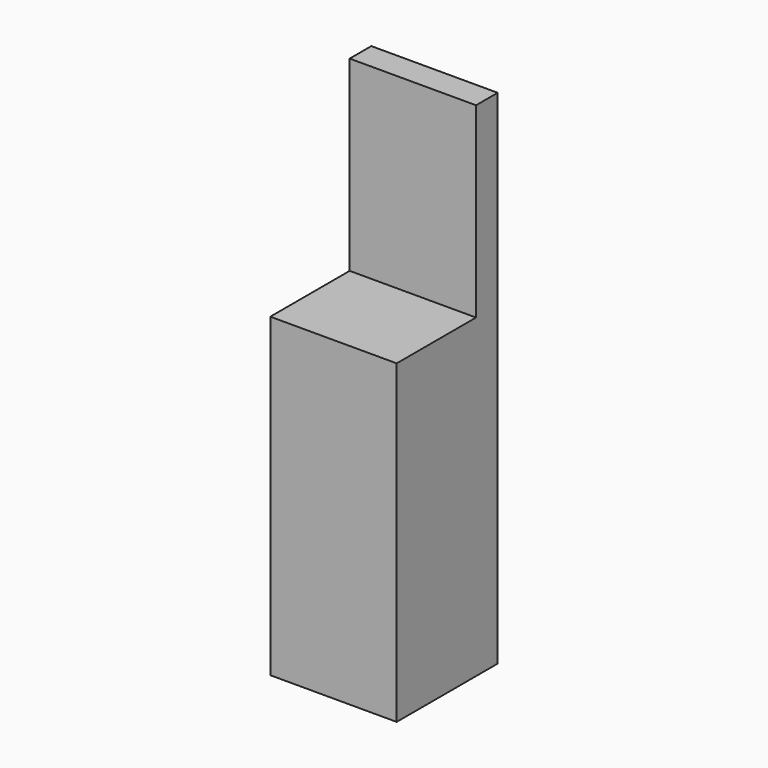
from build123d import *

# Parameters (mm, degrees)
F0_W     = 50.8
F0_H     = 127
F1_DEPTH = 50.8508
F2_T     = -1.27
F3_W     = 50.8508
F3_H     = 10.889844
F4_DEPTH = 75.184


with BuildPart() as f1:
    # F0 (on Right) → F1 (new body)
    with BuildSketch(Plane.YZ):
        with Locations((-22.600227, 0.559007)):
            Rectangle(F0_W, F0_H)
    extrude(amount=F1_DEPTH)

    # F2
    f2_openings = [f1.faces().sort_by_distance(p)[0] for p in [
        (25.4254, -22.600227, -62.940993),
    ]]
    offset(amount=F2_T, openings=f2_openings)

    # F3 (on face) → F4 (join)
    with BuildSketch(Plane.XY.offset(64.059007)):
        with Locations((25.4254, -2.645149)):
            Rectangle(F3_W, F3_H)
    extrude(amount=F4_DEPTH)


solid = f1.part
